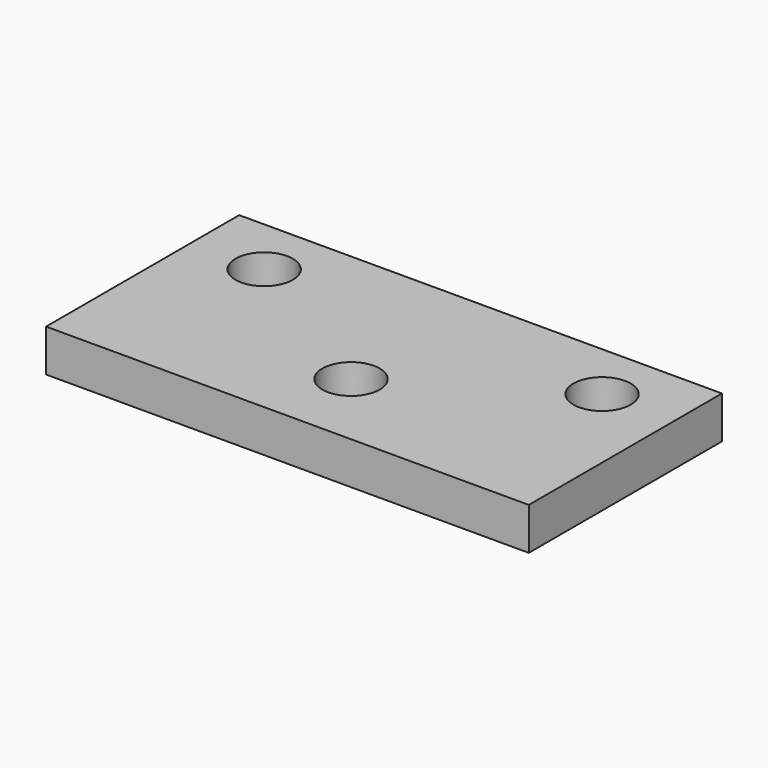
from build123d import *

# Parameters (mm, degrees)
F0_W     = 40
F0_H     = 20
F0_R     = 2.375
F1_DEPTH = 3.5


with BuildPart() as f1:
    # F0 (on Top) → F1 (new body)
    with BuildSketch(Plane.XY):
        with Locations((2.275166, -5.085821)):
            Rectangle(F0_W, F0_H)
        with Locations((2.275166, -8.5)):
            Circle(F0_R, mode=Mode.SUBTRACT)
        with Locations((-11.724834, 0)):
            Circle(F0_R, mode=Mode.SUBTRACT)
        with Locations((16.275166, 0)):
            Circle(F0_R, mode=Mode.SUBTRACT)
    extrude(amount=F1_DEPTH)


solid = f1.part
